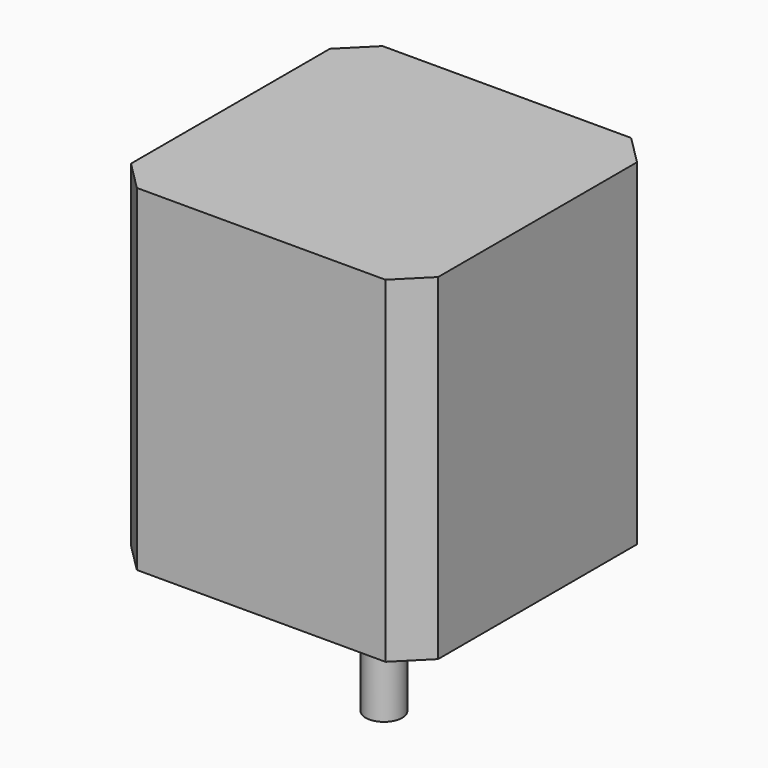
from build123d import *

# Parameters (mm, degrees)
SKETCH_W     = 42
SKETCH_H     = 42
PAD_DEPTH    = 46
CHAMFER_SIZE = 4
SKETCH001_R  = 2.5
PAD001_DEPTH = 20


with BuildPart() as part:
    # Sketch → Pad (new body)
    with BuildSketch(Plane.XY):
        Rectangle(SKETCH_W, SKETCH_H)
    extrude(amount=PAD_DEPTH)

    # Chamfer
    chamfer_edges = [part.edges().sort_by_distance(p)[0] for p in [
        (-21, 21, 23),
        (-21, -21, 23),
        (21, -21, 23),
        (21, 21, 23),
    ]]
    chamfer(chamfer_edges, length=CHAMFER_SIZE)

    # Sketch001 → Pad001 (join)
    with BuildSketch(Plane.XY):
        Circle(SKETCH001_R)
    extrude(amount=-PAD001_DEPTH)


with BuildPart() as part_1:
    # Body placement: moved
    add(part.part.moved(Location((30, 0, 54))))


solid = part_1.part
